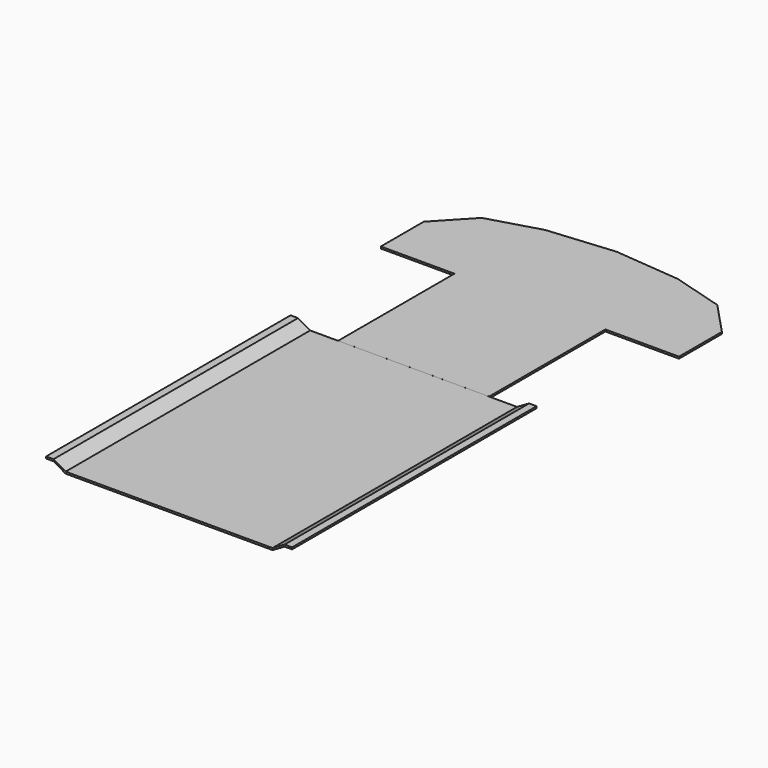
from build123d import *

# Parameters (mm, degrees)
F2_DEPTH = 820
F3_DEPTH = 10


with BuildPart() as f2:
    # F0 (on Front) → F2 (new body, symmetric)
    with BuildSketch(Plane.XZ):
        Polygon((555.048095, 0), (0, 0), (0, -10), (555.048095, -10), (620, 27.5), (660, 27.5), (660, 37.5), (620, 37.5), align=None)
        Polygon((0, -10), (0, 0), (-555.048095, 0), (-620, 37.5), (-660, 37.5), (-660, 27.5), (-620, 27.5), (-555.048095, -10), align=None)
    extrude(amount=F2_DEPTH, both=True)


with BuildPart() as f3:
    # F1 (on Top) → F3 (new body)
    with BuildSketch(Plane.XY):
        Polygon((-405, 820.073301), (0, 820.073301), (405, 820.073301), (405, 1600.073301), (0, 1600.073301), (-405, 1600.073301), align=None)
        Polygon((0, 1600.073301), (405, 1600.073301), (800, 1600.073301), (800, 1888.042719), (632.118702, 2066.73164), (355.87281, 2147.387215), (0, 2180.073301), align=None)
        Polygon((-800, 1600.073301), (-405, 1600.073301), (0, 1600.073301), (0, 2180.073301), (-355.87281, 2147.387215), (-632.118702, 2066.73164), (-800, 1888.042719), align=None)
    extrude(amount=-F3_DEPTH)


solid = Compound([f2.part, f3.part])
